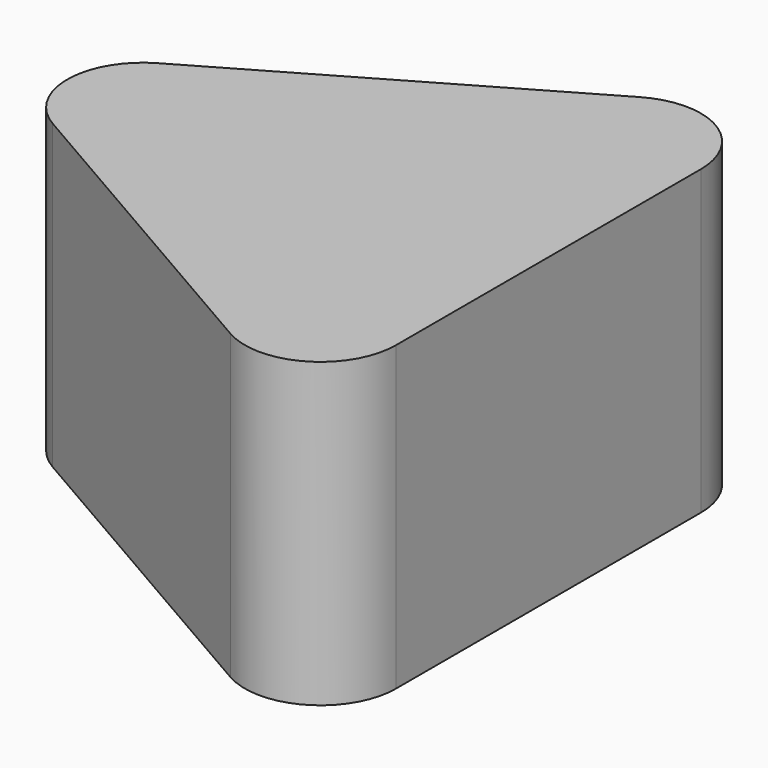
from build123d import *

# Parameters (mm, degrees)
F1_DEPTH = 60
F2_R     = 15


with BuildPart() as f1:
    # F0 (on Top) → F1 (new body)
    with BuildSketch(Plane.XY):
        Polygon((36.826879, -63.786025), (36.826879, 63.786025), (-73.653758, 0), align=None)
    extrude(amount=F1_DEPTH)

    # F2
    f2_edges = [f1.edges().sort_by_distance(p)[0] for p in [
        (36.826879, 63.786025, 30),
        (36.826879, -63.786025, 30),
        (-73.653758, 0, 30),
    ]]
    fillet(f2_edges, radius=F2_R)


solid = f1.part
